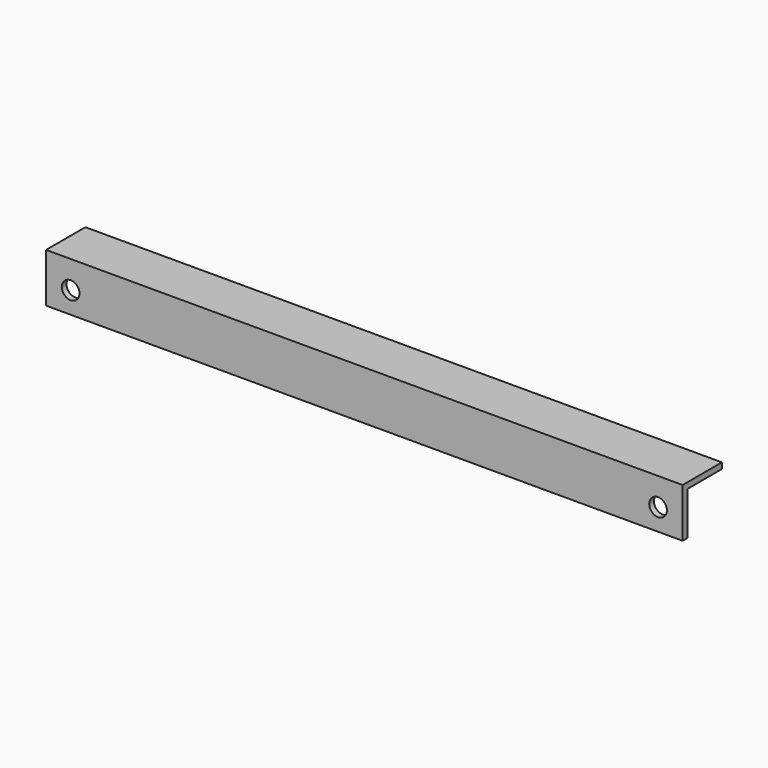
from build123d import *

# Parameters (mm, degrees)
F0_W     = 648
F0_H     = 50
F1_DEPTH = 6
F2_W     = 648
F2_H     = 6
F3_DEPTH = 44
F4_R     = 9
F5_DEPTH = 50.001


with BuildPart() as f1:
    # F0 (on Front) → F1 (new body)
    with BuildSketch(Plane.XZ):
        with Locations((324, 25)):
            Rectangle(F0_W, F0_H)
    extrude(amount=F1_DEPTH)

    # F2 (on face) → F3 (join)
    with BuildSketch(Plane(origin=(0, 0, 0), x_dir=(-1, 0, 0), z_dir=(0, 1, 0))):
        with Locations((-324, 47)):
            Rectangle(F2_W, F2_H)
    extrude(amount=F3_DEPTH)

    # F4 (on face) → F5 (cut, through all)
    with BuildSketch(Plane.XZ.offset(6)):
        with Locations((25, 22)):
            Circle(F4_R)
        with Locations((623, 22)):
            Circle(F4_R)
    extrude(amount=-F5_DEPTH, mode=Mode.SUBTRACT)


solid = f1.part
